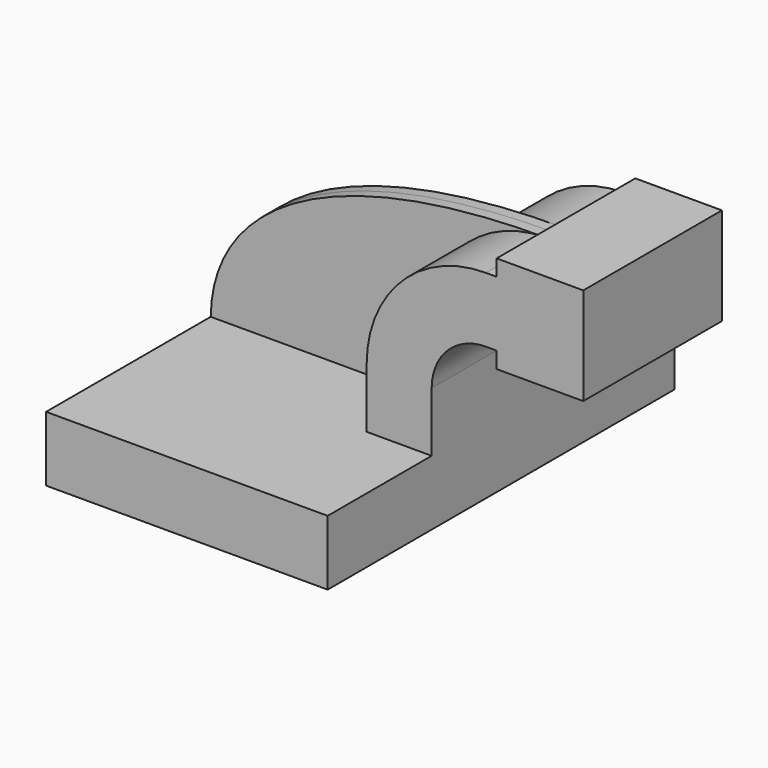
from build123d import *

# Parameters (mm, degrees)
F1_DEPTH = 63.5
F0_W     = 25.4
F0_H     = 19.05
F0_H_2   = 4.7498
F0_H_3   = 4.7752
F2_DEPTH = 25.4
F3_DEPTH = 3.175


with BuildPart() as f1:
    # F0 (on Front) → F1 (new body, symmetric)
    with BuildSketch(Plane.XZ):
        Polygon((41.275, -9.525), (41.275, 9.525), (22.225, 9.525), (-41.275, 9.525), (-41.275, -9.525), align=None)
    extrude(amount=F1_DEPTH, both=True)

    # F0 (on Front) → F2 (join, symmetric)
    with BuildSketch(Plane.XZ):
        with BuildLine():
            Line((22.225, 9.525), (41.275, 9.525))
            Line((41.275, 9.525), (41.275, 27.0002))
            ThreePointArc((41.275, 27.0002), (45.9246798487, 38.2255201513), (57.15, 42.8752))
            Line((57.15, 42.8752), (60.325, 42.8752))
            Line((60.325, 42.8752), (60.325, 61.9252))
            Line((60.325, 61.9252), (57.15, 61.9252))
            ThreePointArc((57.15, 61.9252), (32.4542956671, 51.6959043329), (22.225, 27.0002))
            Line((22.225, 27.0002), (22.225, 9.525))
        make_face()
        with Locations((73.025, 52.4002)):
            Rectangle(F0_W, F0_H)
        with Locations((73.025, 64.3001)):
            Rectangle(F0_W, F0_H_2)
        with Locations((73.025, 40.4876)):
            Rectangle(F0_W, F0_H_3)
    extrude(amount=F2_DEPTH, both=True)

    # F0 (on Front) → F3 (join, symmetric)
    with BuildSketch(Plane.XZ):
        with BuildLine():
            Line((-41.275, 9.525), (22.225, 9.525))
            Line((22.225, 9.525), (22.225, 27.0002))
            ThreePointArc((22.225, 27.0002), (32.4542956671, 51.6959043329), (57.15, 61.9252))
            add(Edge.make_bspline(
                [(-41.275, 9.525), (-40.8707372844, 40.7271385193), (-5.9925662354, 61.9721710682), (57.15, 61.9252)],
                knots=[0, 0, 0, 0, 111.5045361635, 111.5045361635, 111.5045361635, 111.5045361635], degree=3))
        make_face()
    extrude(amount=F3_DEPTH, both=True)


solid = f1.part
